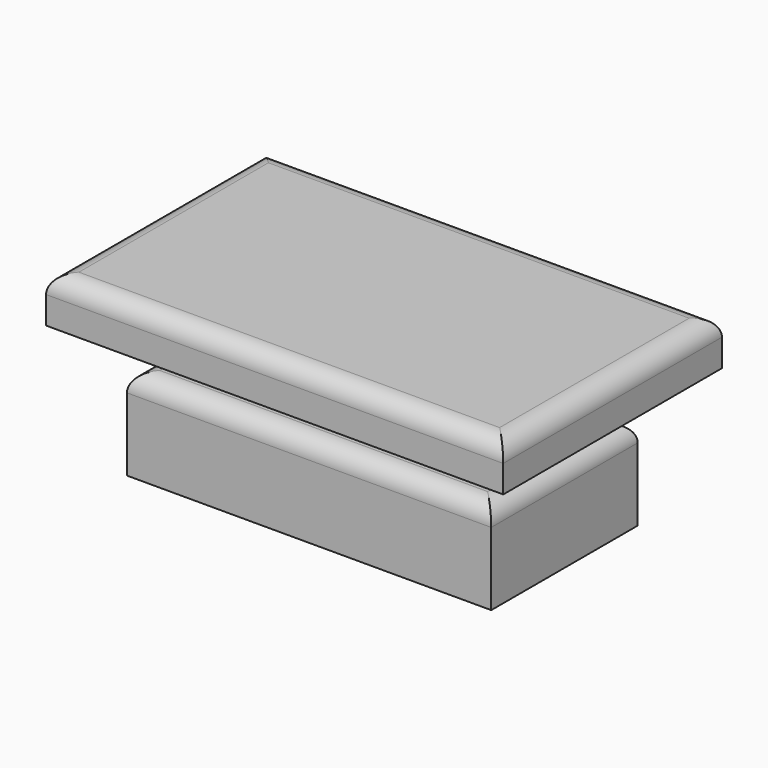
from build123d import *

# Parameters (mm, degrees)
F0_W     = 101.5923656523
F0_H     = 51.0535798967
F1_DEPTH = 25.4
F2_R     = 5.08
F3_W     = 76.4648839831
F3_H     = 25.6656967103
F4_DEPTH = 12.7
F5_R     = 5.08
F6_W     = 127.4997331202
F6_H     = 76.2346722186
F7_DEPTH = 12.7
F8_R     = 5.08


with BuildPart() as f1:
    # F0 (on Top) → F1 (new body)
    with BuildSketch(Plane.XY):
        with Locations((-14.3452938646, -5.9895161539)):
            Rectangle(F0_W, F0_H)
    extrude(amount=F1_DEPTH)

    # F2
    f2_edges = [f1.edges().sort_by_distance(p)[0] for p in [
        (-14.345294, -31.516306, 25.4),
        (-65.141477, -5.989516, 25.4),
        (-14.345294, 19.537274, 25.4),
        (36.450889, -5.989516, 25.4),
    ]]
    fillet(f2_edges, radius=F2_R)

    # F3 (on face) → F4 (join)
    with BuildSketch(Plane.XY.offset(25.4)):
        with Locations((-14.4407190382, -3.7901271135)):
            Rectangle(F3_W, F3_H)
    extrude(amount=F4_DEPTH)

    # F5
    f5_edges = [f1.edges().sort_by_distance(p)[0] for p in [
        (-52.673161, -16.622975, 31.75),
        (23.791723, -16.622975, 31.75),
        (-52.673161, 9.042721, 31.75),
        (23.791723, 9.042721, 31.75),
    ]]
    fillet(f5_edges, radius=F5_R)

    # F6 (on face) → F7 (join)
    with BuildSketch(Plane.XY.offset(38.1)):
        with Locations((-13.627236709, -6.3019637018)):
            Rectangle(F6_W, F6_H)
        with BuildLine():
            Line((-47.5931610298, 9.0427212417), (18.7117229533, 9.0427212417))
            ThreePointArc((18.7117229533, 9.0427212417), (22.3038254017, 7.5548236901), (23.7917229533, 3.9627212417))
            Line((23.7917229533, 3.9627212417), (23.7917229533, -11.5429754686))
            ThreePointArc((23.7917229533, -11.5429754686), (22.3038254017, -15.1350779171), (18.7117229533, -16.6229754686))
            Line((18.7117229533, -16.6229754686), (-47.5931610298, -16.6229754686))
            ThreePointArc((-47.5931610298, -16.6229754686), (-51.1852634782, -15.1350779171), (-52.6731610298, -11.5429754686))
            Line((-52.6731610298, -11.5429754686), (-52.6731610298, 3.9627212417))
            ThreePointArc((-52.6731610298, 3.9627212417), (-51.1852634782, 7.5548236901), (-47.5931610298, 9.0427212417))
        make_face(mode=Mode.SUBTRACT)
        with BuildLine():
            ThreePointArc((23.7917229533, 3.9627212417), (22.3038254017, 7.5548236901), (18.7117229533, 9.0427212417))
            Line((18.7117229533, 9.0427212417), (-47.5931610298, 9.0427212417))
            ThreePointArc((-47.5931610298, 9.0427212417), (-51.1852634782, 7.5548236901), (-52.6731610298, 3.9627212417))
            Line((-52.6731610298, 3.9627212417), (-52.6731610298, -11.5429754686))
            ThreePointArc((-52.6731610298, -11.5429754686), (-51.1852634782, -15.1350779171), (-47.5931610298, -16.6229754686))
            Line((-47.5931610298, -16.6229754686), (18.7117229533, -16.6229754686))
            ThreePointArc((18.7117229533, -16.6229754686), (22.3038254017, -15.1350779171), (23.7917229533, -11.5429754686))
            Line((23.7917229533, -11.5429754686), (23.7917229533, 3.9627212417))
        make_face()
    extrude(amount=F7_DEPTH)

    # F8
    f8_edges = [f1.edges().sort_by_distance(p)[0] for p in [
        (-13.627237, -44.4193, 50.8),
        (-77.377103, -6.301964, 50.8),
        (-13.627237, 31.815372, 50.8),
        (50.12263, -6.301964, 50.8),
    ]]
    fillet(f8_edges, radius=F8_R)


solid = f1.part
